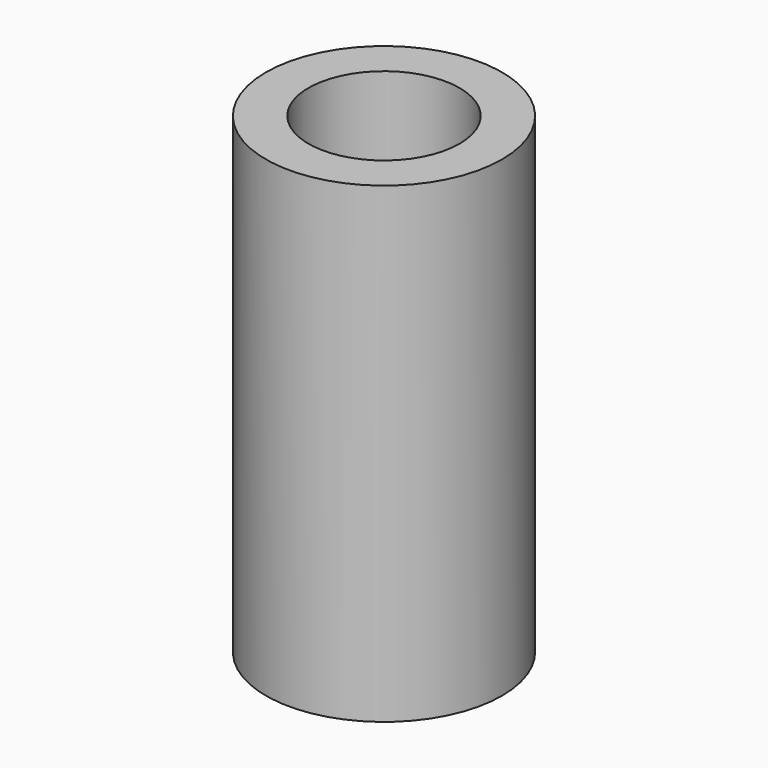
from build123d import *

# Parameters (mm, degrees)
SKETCH061_R  = 1.6
PAD027_DEPTH = 10
SKETCH060_R  = 2.5
PAD026_DEPTH = 10


with BuildPart() as pad027:
    # Sketch061 → Pad027 (new body)
    with BuildSketch(Plane.XY.offset(10)):
        Circle(SKETCH061_R)
    extrude(amount=-PAD027_DEPTH)


with BuildPart() as cut041:
    # Sketch060 → Pad026 (new body)
    with BuildSketch(Plane.XY):
        Circle(SKETCH060_R)
    extrude(amount=PAD026_DEPTH)

    # Cut041: cut Pad027
    add(pad027.part, mode=Mode.SUBTRACT)


with BuildPart() as cut041_1:
    # Cut041 placement: moved
    add(cut041.part.moved(Location((37.5, -106.5, -88))))


solid = cut041_1.part
